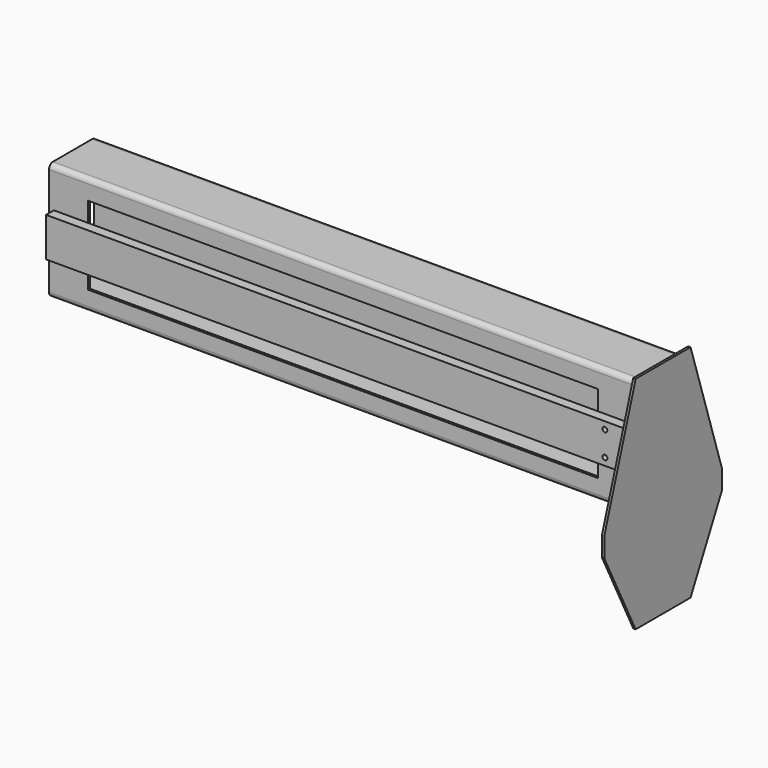
from build123d import *

# Parameters (mm, degrees)
F1_DEPTH  = 762
F2_W      = 660.4
F2_H      = 101.6
F3_DEPTH  = 3.048
F4_R      = 3.175
F5_DEPTH  = 25.4
F6_W      = 749.3
F6_H      = 50.8
F7_DEPTH  = 12.7
F8_R      = 3.175
F9_DEPTH  = 15.749
F11_DEPTH = 3.048


with BuildPart() as f1:
    # F0 (on Right) → F1 (new body)
    with BuildSketch(Plane.YZ):
        with BuildLine():
            ThreePointArc((0, 6.35), (1.8598719395, 1.8598719395), (6.35, 0))
            Line((6.35, 0), (69.85, 0))
            ThreePointArc((69.85, 0), (74.3401280605, 1.8598719395), (76.2, 6.35))
            Line((76.2, 6.35), (76.2, 146.05))
            ThreePointArc((76.2, 146.05), (74.3401280605, 150.5401280605), (69.85, 152.4))
            Line((69.85, 152.4), (6.35, 152.4))
            ThreePointArc((6.35, 152.4), (1.8598719395, 150.5401280605), (0, 146.05))
            Line((0, 146.05), (0, 6.35))
        make_face()
        with BuildLine():
            Line((73.152, 143.002), (73.152, 9.398))
            ThreePointArc((73.152, 9.398), (71.2921280605, 4.9078719395), (66.802, 3.048))
            Line((66.802, 3.048), (9.398, 3.048))
            ThreePointArc((9.398, 3.048), (4.9078719395, 4.9078719395), (3.048, 9.398))
            Line((3.048, 9.398), (3.048, 143.002))
            ThreePointArc((3.048, 143.002), (4.9078719395, 147.4921280605), (9.398, 149.352))
            Line((9.398, 149.352), (66.802, 149.352))
            ThreePointArc((66.802, 149.352), (71.2921280605, 147.4921280605), (73.152, 143.002))
        make_face(mode=Mode.SUBTRACT)
    extrude(amount=F1_DEPTH)

    # F2 (on face) → F3 (cut)
    with BuildSketch(Plane.XZ):
        with Locations((381, 76.2)):
            Rectangle(F2_W, F2_H)
    extrude(amount=-F3_DEPTH, mode=Mode.SUBTRACT)

    # F4 (on face) → F5 (cut)
    with BuildSketch(Plane.XZ):
        with Locations((730.25, 92.075)):
            Circle(F4_R)
        with Locations((730.25, 60.325)):
            Circle(F4_R)
        with Locations((31.75, 60.325)):
            Circle(F4_R)
        with Locations((31.75, 92.075)):
            Circle(F4_R)
    extrude(amount=-F5_DEPTH, mode=Mode.SUBTRACT)


with BuildPart() as f7:
    # F6 (on face) → F7 (new body)
    with BuildSketch(Plane.XZ):
        with Locations((381, 76.2)):
            Rectangle(F6_W, F6_H)
    extrude(amount=F7_DEPTH)

    # F8 (on face) → F9 (cut, through all)
    with BuildSketch(Plane(origin=(0, 3.048, 0), x_dir=(-1, 0, 0), z_dir=(0, 1, 0))):
        with Locations((-730.25, 60.325)):
            Circle(F8_R)
        with Locations((-730.25, 92.075)):
            Circle(F8_R)
    extrude(amount=-F9_DEPTH, mode=Mode.SUBTRACT)


with BuildPart() as f11:
    # F10 (on face) → F11 (new body)
    with BuildSketch(Plane.YZ.offset(762)):
        Polygon((82.55, 158.75), (-6.35, 158.75), (-57.15, 0), (-57.15, -25.4), (-6.35, -127), (82.55, -127), (133.35, -25.4), (133.35, 0), align=None)
        with BuildLine():
            Line((0, 6.35), (0, 146.05))
            ThreePointArc((0, 146.05), (1.8598719395, 150.5401280605), (6.35, 152.4))
            Line((6.35, 152.4), (69.85, 152.4))
            ThreePointArc((69.85, 152.4), (74.3401280605, 150.5401280605), (76.2, 146.05))
            Line((76.2, 146.05), (76.2, 6.35))
            ThreePointArc((76.2, 6.35), (74.3401280605, 1.8598719395), (69.85, 0))
            Line((69.85, 0), (6.35, 0))
            ThreePointArc((6.35, 0), (1.8598719395, 1.8598719395), (0, 6.35))
        make_face(mode=Mode.SUBTRACT)
        with BuildLine():
            ThreePointArc((6.35, 152.4), (1.8598719395, 150.5401280605), (0, 146.05))
            Line((0, 146.05), (0, 6.35))
            ThreePointArc((0, 6.35), (1.8598719395, 1.8598719395), (6.35, 0))
            Line((6.35, 0), (69.85, 0))
            ThreePointArc((69.85, 0), (74.3401280605, 1.8598719395), (76.2, 6.35))
            Line((76.2, 6.35), (76.2, 146.05))
            ThreePointArc((76.2, 146.05), (74.3401280605, 150.5401280605), (69.85, 152.4))
            Line((69.85, 152.4), (6.35, 152.4))
        make_face()
        with BuildLine():
            ThreePointArc((66.802, 149.352), (71.2921280605, 147.4921280605), (73.152, 143.002))
            Line((73.152, 143.002), (73.152, 9.398))
            ThreePointArc((73.152, 9.398), (71.2921280605, 4.9078719395), (66.802, 3.048))
            Line((66.802, 3.048), (9.398, 3.048))
            ThreePointArc((9.398, 3.048), (4.9078719395, 4.9078719395), (3.048, 9.398))
            Line((3.048, 9.398), (3.048, 143.002))
            ThreePointArc((3.048, 143.002), (4.9078719395, 147.4921280605), (9.398, 149.352))
            Line((9.398, 149.352), (66.802, 149.352))
        make_face(mode=Mode.SUBTRACT)
        with BuildLine():
            Line((73.152, 9.398), (73.152, 143.002))
            ThreePointArc((73.152, 143.002), (71.2921280605, 147.4921280605), (66.802, 149.352))
            Line((66.802, 149.352), (9.398, 149.352))
            ThreePointArc((9.398, 149.352), (4.9078719395, 147.4921280605), (3.048, 143.002))
            Line((3.048, 143.002), (3.048, 9.398))
            ThreePointArc((3.048, 9.398), (4.9078719395, 4.9078719395), (9.398, 3.048))
            Line((9.398, 3.048), (66.802, 3.048))
            ThreePointArc((66.802, 3.048), (71.2921280605, 4.9078719395), (73.152, 9.398))
        make_face()
    extrude(amount=F11_DEPTH)


solid = Compound([f1.part, f7.part, f11.part])
